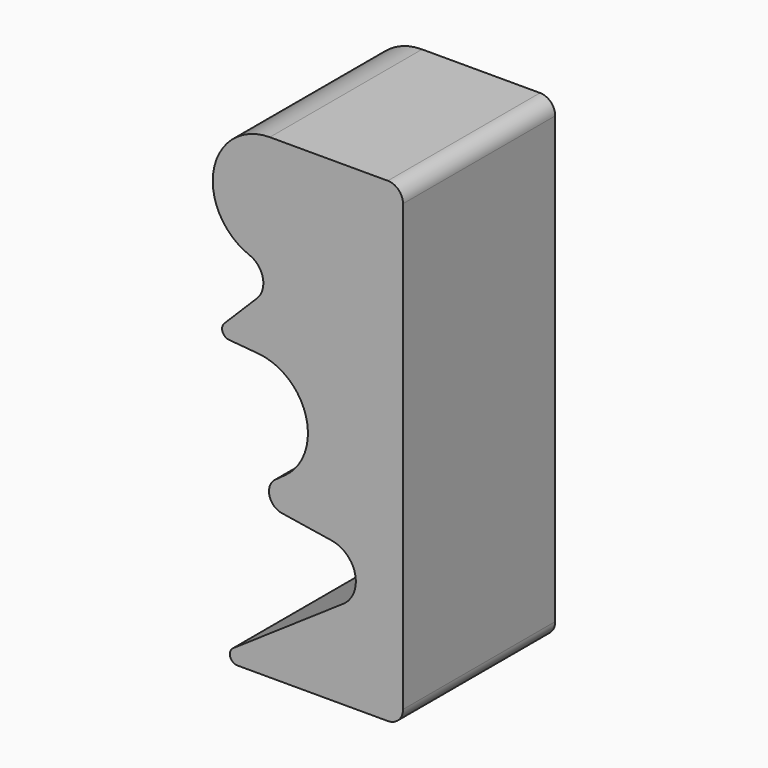
from build123d import *

# Parameters (mm, degrees)
F1_DEPTH = 6.35


with BuildPart() as f1:
    # F0 (on Front) → F1 (new body)
    with BuildSketch(Plane.XZ):
        with BuildLine():
            Line((-5.524762, 0), (-0.508, 0))
            ThreePointArc((-0.508, 0), (-0.14879, 0.14879), (0, 0.508))
            Line((0, 0.508), (0, 15.367))
            ThreePointArc((0, 15.367), (-0.14879, 15.72621), (-0.508, 15.875))
            Line((-0.508, 15.875), (-4.445, 15.875))
            ThreePointArc((-4.445, 15.875), (-6.318154, 14.316871), (-5.127144, 12.191319))
            ThreePointArc((-5.127144, 12.191319), (-4.677356, 11.664932), (-4.873952, 11.001048))
            Line((-4.873952, 11.001048), (-5.964836, 9.910164))
            ThreePointArc((-5.964836, 9.910164), (-6.023912, 9.643686), (-5.807368, 9.477526))
            Line((-5.807368, 9.477526), (-4.828483, 9.391884))
            ThreePointArc((-4.828483, 9.391884), (-3.240143, 8.070876), (-3.921246, 6.120495))
            Line((-3.921246, 6.120495), (-4.264111, 5.871389))
            ThreePointArc((-4.264111, 5.871389), (-4.45948, 5.341818), (-4.044985, 4.958663))
            Line((-4.044985, 4.958663), (-2.379395, 4.694859))
            ThreePointArc((-2.379395, 4.694859), (-1.597478, 3.960691), (-1.992111, 2.963365))
            Line((-1.992111, 2.963365), (-5.667589, 0.464039))
            ThreePointArc((-5.667589, 0.464039), (-5.767524, 0.17928), (-5.524762, 0))
        make_face()
    extrude(amount=F1_DEPTH)


solid = f1.part
